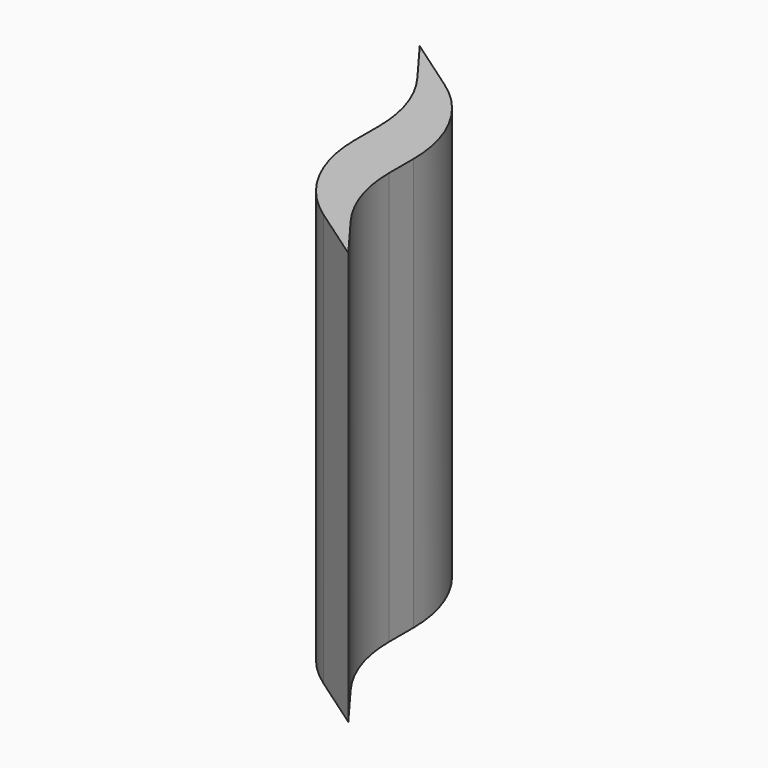
from build123d import *

# Parameters (mm, degrees)
F1_DEPTH = 90


with BuildPart() as f1:
    # F0 (on Top) → F1 (new body)
    with BuildSketch(Plane.XY):
        with BuildLine():
            Line((6.069079, -6.18014), (6.069079, 0.439646))
            ThreePointArc((6.069079, 0.439646), (2.650964, 14.3466), (-6.824479, 25.084517))
            Line((-6.824479, 25.084517), (-19.095395, 33.601977))
            Line((-19.095395, 33.601977), (-12.020254, 24.114854))
            ThreePointArc((-12.020254, 24.114854), (-7.595716, 15.628294), (-6.069079, 6.18014))
            Line((-6.069079, 6.18014), (-6.069079, -0.439646))
            ThreePointArc((-6.069079, -0.439646), (-2.650964, -14.3466), (6.824479, -25.084517))
            Line((6.824479, -25.084517), (19.095395, -33.601977))
            Line((19.095395, -33.601977), (12.020254, -24.114854))
            ThreePointArc((12.020254, -24.114854), (7.595716, -15.628294), (6.069079, -6.18014))
        make_face()
    extrude(amount=F1_DEPTH)


solid = f1.part
